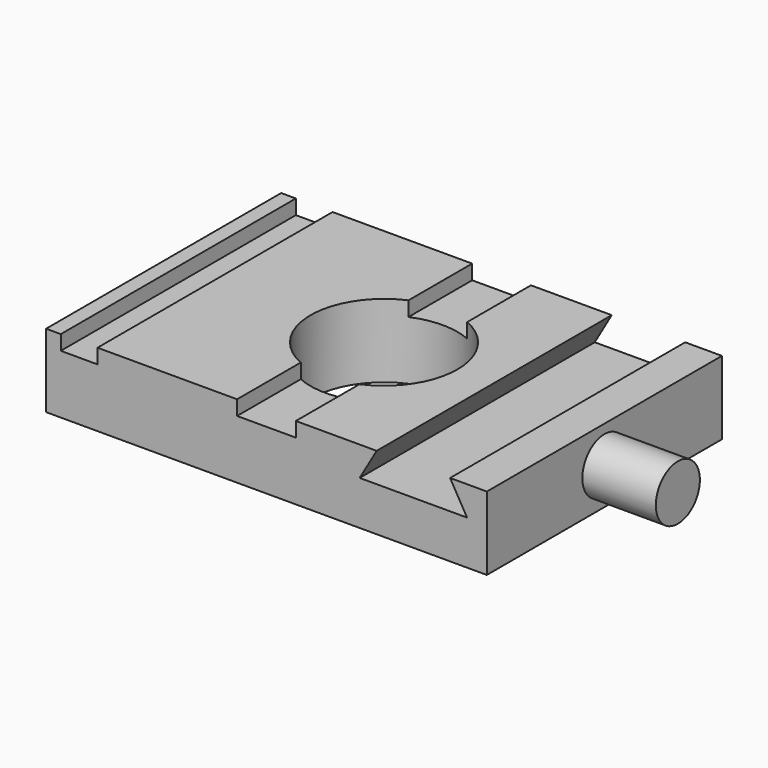
from build123d import *

# Parameters (mm, degrees)
F0_W     = 76.2
F0_H     = 50.8
F0_R     = 12.7
F1_DEPTH = 12.7
F2_W     = 6.35
F2_H     = 50.8
F3_DEPTH = 2.54
F5_DEPTH = 50.8
F6_R     = 4.7625
F7_DEPTH = 12.7


with BuildPart() as f1:
    # F0 (on Top) → F1 (new body)
    with BuildSketch(Plane.XY):
        Rectangle(F0_W, F0_H)
        Circle(F0_R, mode=Mode.SUBTRACT)
    extrude(amount=F1_DEPTH)

    # F2 (on face) → F3 (cut)
    with BuildSketch(Plane.XY.offset(12.7)):
        with BuildLine():
            Line((5.08, 25.4), (-5.08, 25.4))
            Line((-5.08, 25.4), (-5.08, 11.639742))
            ThreePointArc((-5.08, 11.639742), (0, 12.7), (5.08, 11.639742))
            Line((5.08, 11.639742), (5.08, 25.4))
        make_face()
        with BuildLine():
            Line((-5.08, -11.639742), (-5.08, -25.4))
            Line((-5.08, -25.4), (5.08, -25.4))
            Line((5.08, -25.4), (5.08, -11.639742))
            ThreePointArc((5.08, -11.639742), (0, -12.7), (-5.08, -11.639742))
        make_face()
        with Locations((-32.385, 0)):
            Rectangle(F2_W, F2_H)
    extrude(amount=-F3_DEPTH, mode=Mode.SUBTRACT)

    # F4 (on face) → F5 (cut, through all)
    with BuildSketch(Plane.XZ.offset(25.4)):
        Polygon((31.75, 12.7), (19.05, 12.7), (16.117061, 7.62), (34.682939, 7.62), align=None)
    extrude(amount=-F5_DEPTH, mode=Mode.SUBTRACT)

    # F6 (on face) → F7 (join)
    with BuildSketch(Plane.YZ.offset(38.1)):
        with Locations((0, 6.35)):
            Circle(F6_R)
    extrude(amount=F7_DEPTH)


solid = f1.part
